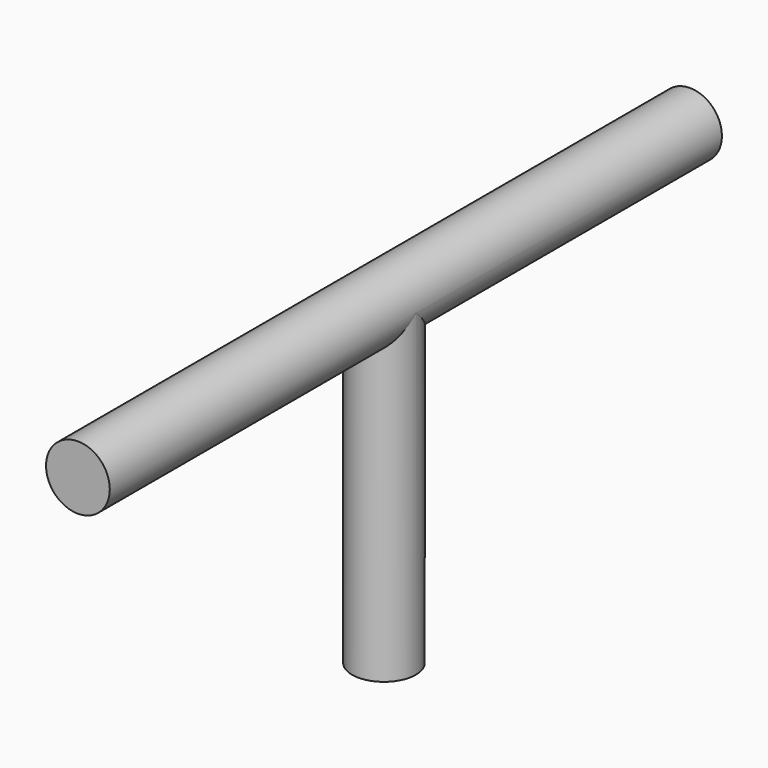
from build123d import *

# Parameters (mm, degrees)
F0_R = 12.7
F6_R = 12.7


with BuildPart() as f4:
    # F4: sweep along a path in F1
    with BuildLine(Plane.YZ) as f4_path:
        Line((0, 0), (0, 127))
    # F0 (on Top) → F4 (sweep)
    with BuildSketch(Plane.XY):
        Circle(F0_R)
    sweep(path=f4_path.line)

    # F7: sweep along a path in F3
    with BuildLine(Plane.XY.offset(127)) as f7_path:
        Line((0, -152.4), (0, 0))
        Line((0, 0), (0, 152.4))
    # F6 (on face) → F7 (sweep)
    with BuildSketch(Plane.XZ.offset(152.4)):
        with Locations((0, 127.014965)):
            Circle(F6_R)
    sweep(path=f7_path.line)


solid = f4.part
